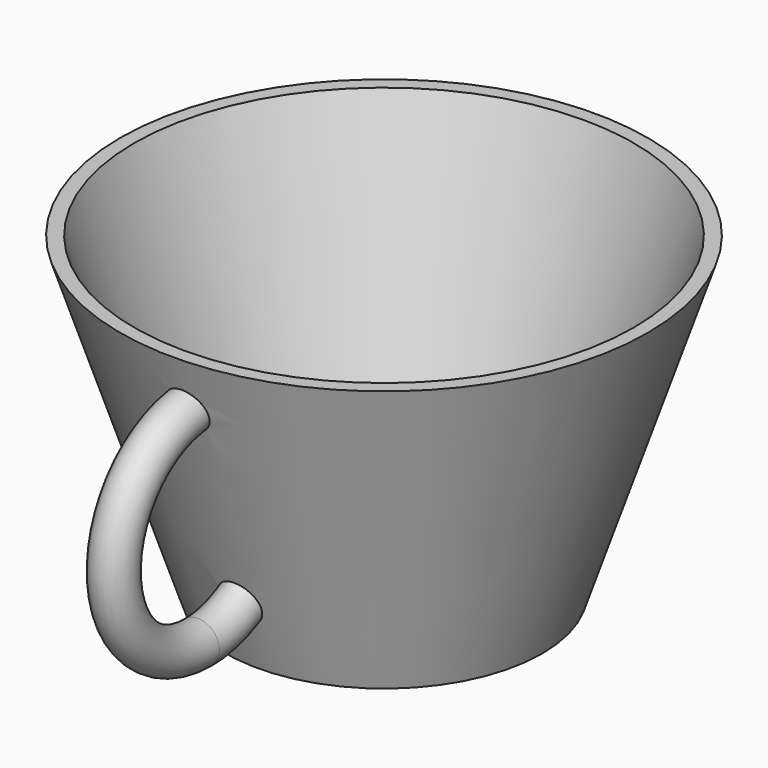
from build123d import *

# Parameters (mm, degrees)
TORUS_R = 2


with BuildPart() as cono001:
    # Cone001 → Cone001 (revolve)
    with BuildSketch(Plane(origin=(0, 0, 1), x_dir=(1, 0, 0), z_dir=(0, -1, 0))):
        Polygon((0, 0), (14, 0), (24, 30), (0, 30), align=None)
    revolve(axis=Axis((0, 0, 1), (0, 0, 1)))


with BuildPart() as toro:
    # Torus → Torus (revolve)
    with BuildSketch(Plane(origin=(0, -22, 15), x_dir=(0, 0, -1), z_dir=(0, -1, 0))):
        with Locations((10, 0)):
            Circle(TORUS_R)
    revolve(axis=Axis((0, -22, 15), (1, 0, 0)))


with BuildPart() as cut:
    # Cone → Cone (revolve)
    with BuildSketch(Plane.XZ):
        Polygon((0, 0), (15, 0), (25, 30), (0, 30), align=None)
    revolve(axis=Axis((0, 0, 0), (0, 0, 1)))

    # Fusion: union Toro
    add(toro.part)

    # Cut: cut Cono001
    add(cono001.part, mode=Mode.SUBTRACT)


solid = cut.part
